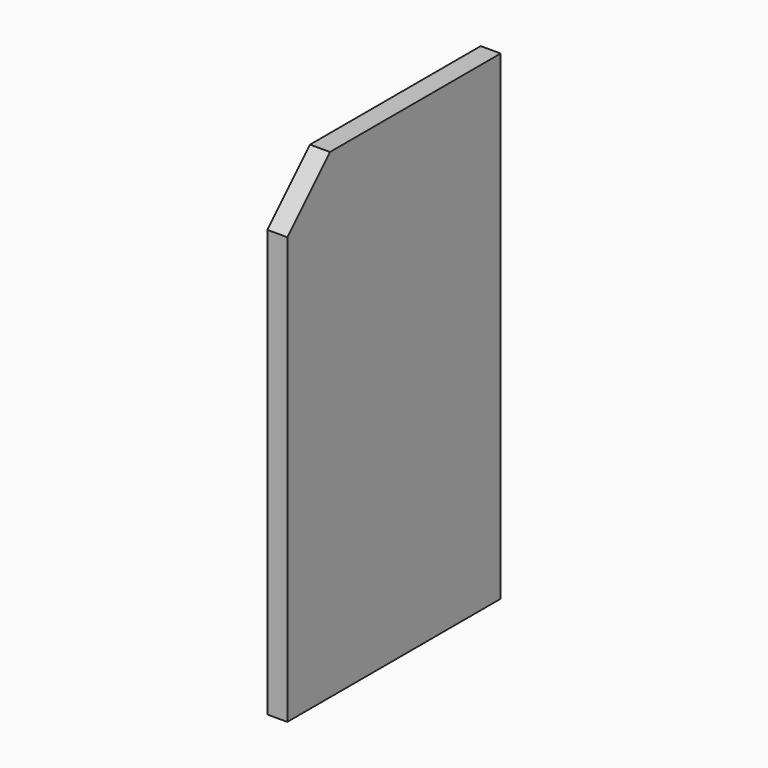
from build123d import *

# Parameters (mm, degrees)
F0_W     = 254
F0_H     = 457.2
F1_DEPTH = 9.525
F2_SIZE  = 50.8


with BuildPart() as f1:
    # F0 (on Right) → F1 (new body, symmetric)
    with BuildSketch(Plane.YZ):
        Rectangle(F0_W, F0_H)
    extrude(amount=F1_DEPTH, both=True)

    # F2
    f2_edges = [f1.edges().sort_by_distance(p)[0] for p in [
        (0, -127, 228.6),
    ]]
    chamfer(f2_edges, length=F2_SIZE)


solid = f1.part
